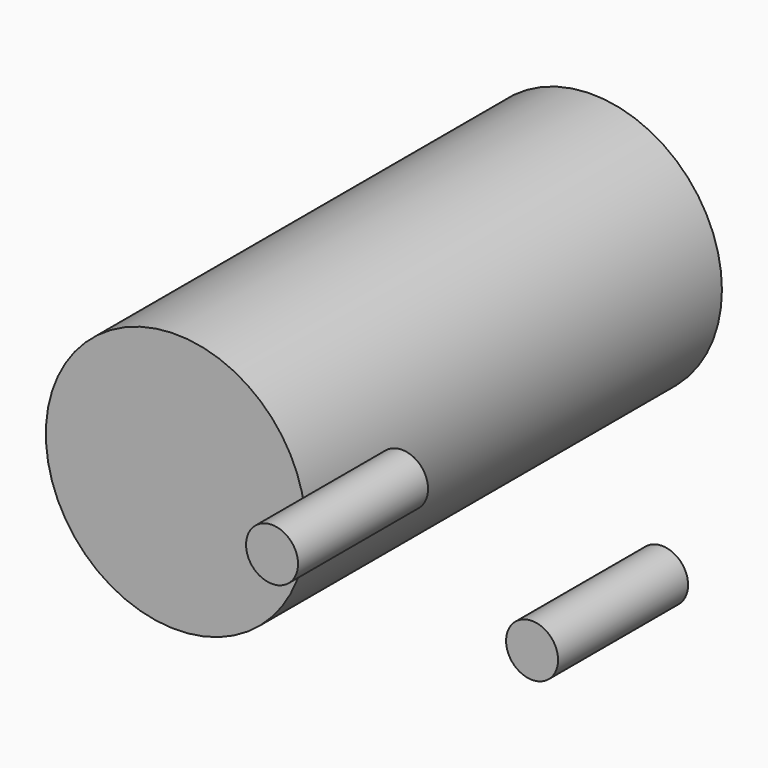
from build123d import *

# Parameters (mm, degrees)
F0_R     = 1.27
F1_DEPTH = 5.08
F0_R_2   = 0.254
F2_DEPTH = 1.5875


with BuildPart() as f1:
    # F0 (on Front) → F1 (new body)
    with BuildSketch(Plane.XZ):
        Circle(F0_R)
    extrude(amount=-F1_DEPTH)


with BuildPart() as f2:
    # F0 (on Front) → F2 (new body)
    with BuildSketch(Plane.XZ):
        with Locations((2.209658, 0.740942)):
            Circle(F0_R_2)
    extrude(amount=F2_DEPTH)


with BuildPart() as f3_1:
    # F3: copy of F2
    add(f2.part.moved(Location((2.54, 0, 0))))


solid = Compound([f1.part, f2.part, f3_1.part])
